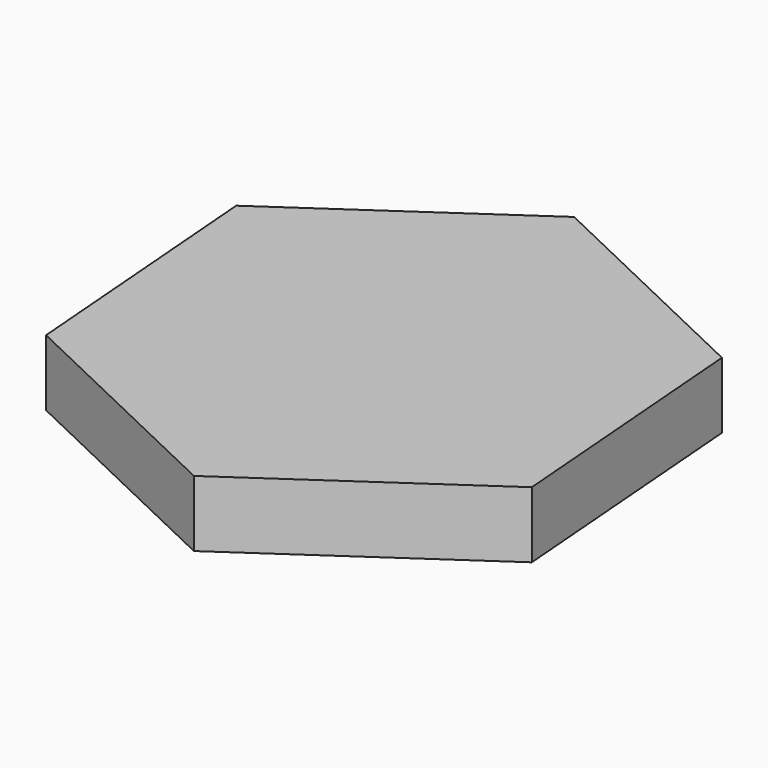
from build123d import *

# Parameters (mm, degrees)
F0_R     = 6.25
F1_DEPTH = 2.5
F2_R     = 6.25
F3_DEPTH = 1.5


with BuildPart() as f1:
    # F0 (on Top) → F1 (new body)
    with BuildSketch(Plane.XY):
        Polygon((9.027855, -4.30091), (8.238625, 5.667897), (-0.78923, 9.968807), (-9.027855, 4.30091), (-8.238625, -5.667897), (0.78923, -9.968807), align=None)
        Circle(F0_R, mode=Mode.SUBTRACT)
        Circle(F0_R)
    extrude(amount=F1_DEPTH)

    # F2 (on face) → F3 (cut)
    with BuildSketch(Plane(origin=(0, 0, 0), x_dir=(1, 0, 0), z_dir=(0, 0, -1))):
        with Locations((0.303271, 0)):
            Circle(F2_R)
    extrude(amount=-F3_DEPTH, mode=Mode.SUBTRACT)


solid = f1.part
